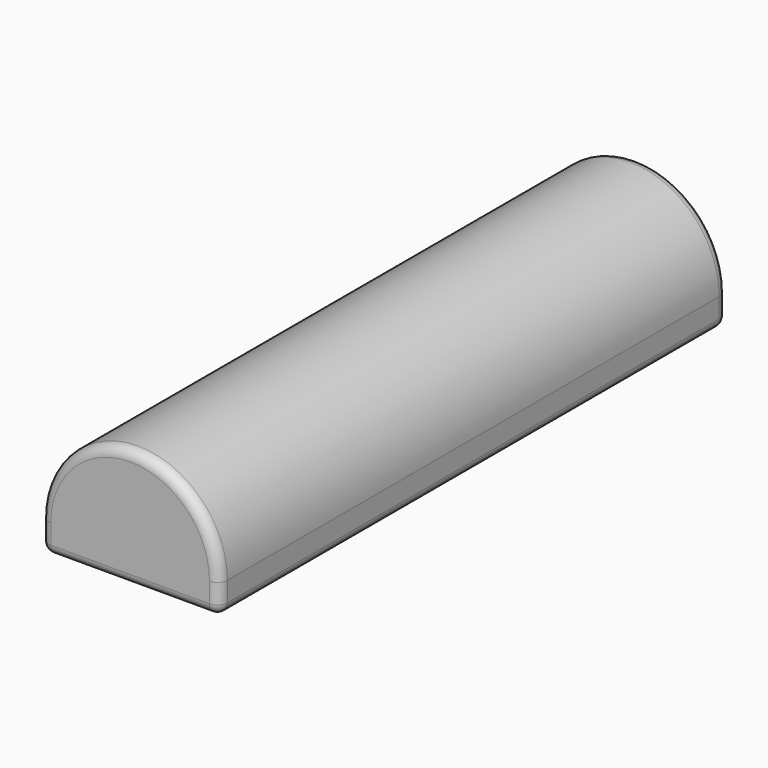
from build123d import *

# Parameters (mm, degrees)
F1_DEPTH = 1625.6
F2_R     = 25.4


with BuildPart() as f1:
    # F0 (on Front) → F1 (new body)
    with BuildSketch(Plane.XZ):
        with BuildLine():
            ThreePointArc((228.6, 76.2), (0, 304.8), (-228.6, 76.2))
            Line((-228.6, 76.2), (-228.6, 0))
            Line((-228.6, 0), (228.6, 0))
            Line((228.6, 0), (228.6, 76.2))
        make_face()
    extrude(amount=F1_DEPTH)

    # F2
    f2_edges = [f1.edges().sort_by_distance(p)[0] for p in [
        (0, -1625.6, 304.8),
        (0, 0, 304.8),
        (228.6, -812.8, 0),
        (0, -1625.6, 0),
        (0, 0, 0),
        (-228.6, -812.8, 0),
    ]]
    fillet(f2_edges, radius=F2_R)


solid = f1.part
